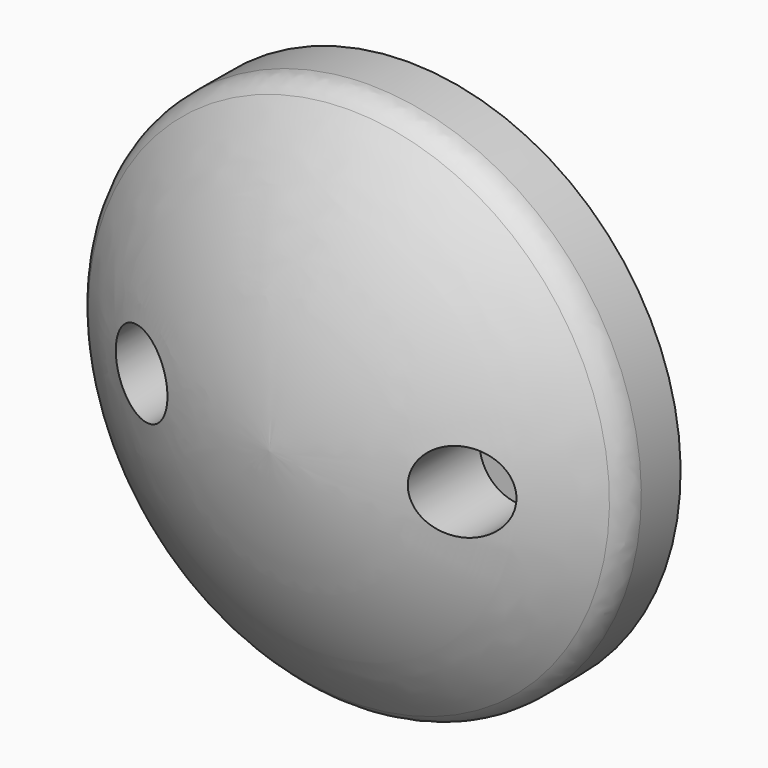
from build123d import *

# Parameters (mm, degrees)
F2_R     = 1.27
F3_SIZE  = 0.635
F5_R     = 1.5875
F6_DEPTH = 4.445


with BuildPart() as f1:
    # F0 (on Right) → F1 (revolve)
    with BuildSketch(Plane.YZ):
        with BuildLine():
            Line((-11.43, 0), (0, 0))
            Line((0, 0), (0, 2.54))
            Line((0, 2.54), (-6.35, 2.54))
            Line((-6.35, 2.54), (-6.35, 8.255))
            Line((-6.35, 8.255), (-4.572, 8.255))
            Line((-4.572, 8.255), (-4.572, 10.795))
            Line((-4.572, 10.795), (-7.112, 10.795))
            ThreePointArc((-7.112, 10.795), (-10.178307, 5.760423), (-11.43, 0))
        make_face()
    revolve(axis=Axis((0, -5.715, 0), (0, 1, 0)))

    # F2
    f2_edges = [f1.edges().sort_by_distance(p)[0] for p in [
        (0, -7.112, -10.795),
    ]]
    fillet(f2_edges, radius=F2_R)

    # F3
    f3_edges = [f1.edges().sort_by_distance(p)[0] for p in [
        (0, 0, -2.54),
    ]]
    chamfer(f3_edges, length=F3_SIZE)

    # F5 (on offset) → F6 (cut)
    with BuildSketch(Plane.XZ.offset(11.43)):
        with Locations((6.35, 0)):
            Circle(F5_R)
        with Locations((-6.35, 0)):
            Circle(F5_R)
    extrude(amount=-F6_DEPTH, mode=Mode.SUBTRACT)


solid = f1.part
